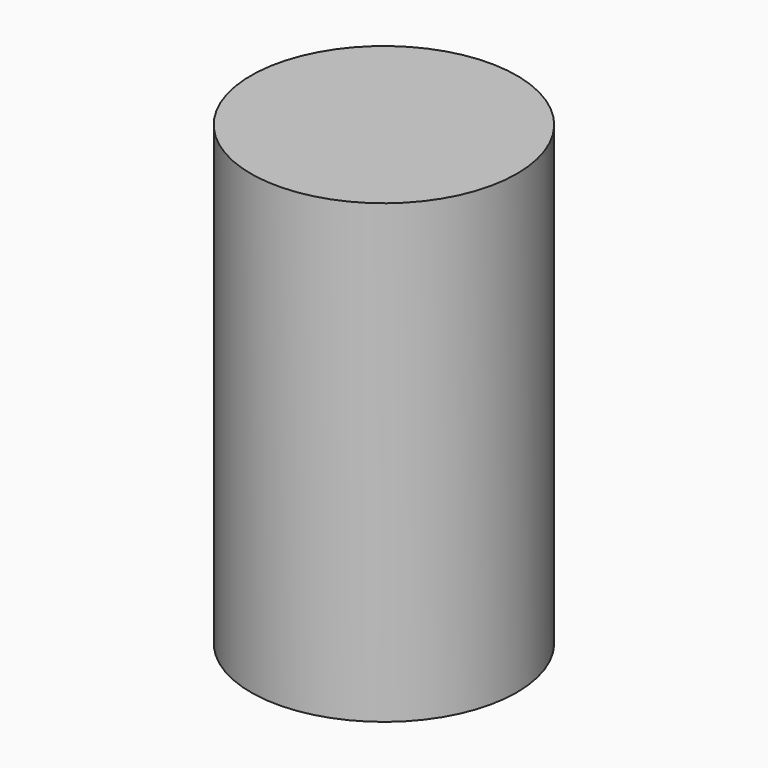
from build123d import *

# Parameters (mm, degrees)
CYLINDER_R     = 4.3688
CYLINDER_DEPTH = 15


with BuildPart() as part:
    # Cylinder → Cylinder (new body)
    with BuildSketch(Plane.XY.offset(-2.5)):
        Circle(CYLINDER_R)
    extrude(amount=CYLINDER_DEPTH)


solid = part.part
